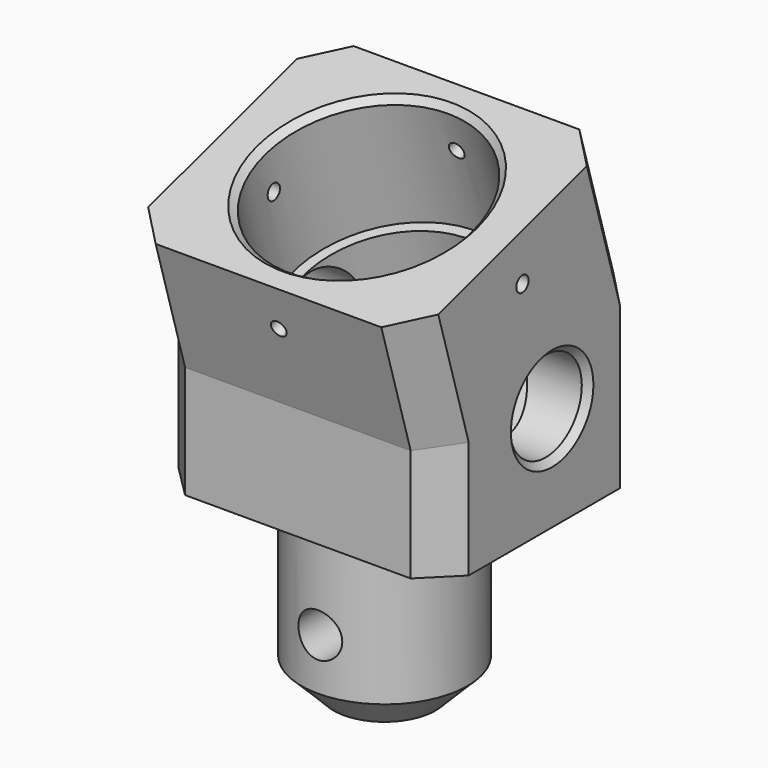
from build123d import *

# Parameters (mm, degrees)
F0_R      = 12.9
F1_DEPTH  = 28
F2_W      = 45
F2_H      = 45
F3_DEPTH  = 50
F5_DEPTH  = 45.001
F6_R      = 14.5
F7_DEPTH  = 35
F8_R      = 16.1
F9_DEPTH  = 20
F10_R     = 3.4
F11_DEPTH = 32.8
F12_R     = 1.2
F12_R_2   = 7
F13_DEPTH = 65.2
F15_DEPTH = 45.0010001
F16_R     = 1.2
F17_DEPTH = 46.3874578725
F18_SIZE  = 5
F19_SIZE  = 1


with BuildPart() as f1:
    # F0 (on Top) → F1 (new body)
    with BuildSketch(Plane.XY):
        Circle(F0_R)
    extrude(amount=F1_DEPTH)

    # F2 (on face) → F3 (join)
    with BuildSketch(Plane.XY.offset(28)):
        Rectangle(F2_W, F2_H)
    extrude(amount=F3_DEPTH)

    # F4 (on face) → F5 (cut, through all)
    with BuildSketch(Plane.YZ.offset(22.5)):
        Polygon((-22.5, 78), (-22.5, 64.6205767989), (22.5, 78), align=None)
    extrude(amount=-F5_DEPTH, mode=Mode.SUBTRACT)

    # F6 (on face) → F7 (cut)
    with BuildSketch(Plane(origin=(0, -19.4799905068, 65.5184875785), x_dir=(1, 0, 0), z_dir=(0, -0.2849907161, 0.9585302769))):
        with Locations((0, 16.7962070879)):
            Circle(F6_R)
    extrude(amount=-F7_DEPTH, mode=Mode.SUBTRACT)

    # F8 (on face) → F9 (cut)
    with BuildSketch(Plane(origin=(0, -19.4799905068, 65.5184875785), x_dir=(1, 0, 0), z_dir=(0, -0.2849907161, 0.9585302769))):
        with Locations((0, 16.7962070879)):
            Circle(F8_R)
    extrude(amount=-F9_DEPTH, mode=Mode.SUBTRACT)

    # F10 (on Front) → F11 (cut, symmetric)
    with BuildSketch(Plane.XZ):
        with Locations((0, 13)):
            Circle(F10_R)
    extrude(amount=F11_DEPTH, both=True, mode=Mode.SUBTRACT)

    # F12 (on Right) → F13 (cut, symmetric)
    with BuildSketch(Plane.YZ):
        with Locations((-1.3853824633, 63.5955387264)):
            Circle(F12_R)
        with Locations((4.3748263706, 44.2218038779)):
            Circle(F12_R_2)
    extrude(amount=F13_DEPTH, both=True, mode=Mode.SUBTRACT)

    # F14 (on face) → F15 (cut, through all)
    with BuildSketch(Plane.YZ.offset(22.5)):
        Polygon((-16.8001856775, 45.449971261), (-22.5, 64.6205767989), (-22.5, 43.755299528), align=None)
        Polygon((-16.8001856775, 28), (-16.8001856775, 45.449971261), (-22.5, 43.755299528), (-22.5, 28), align=None)
        Polygon((22.5, 78), (15.8861410894, 76.0335640587), (22.5, 53.7886850006), align=None)
    extrude(amount=-F15_DEPTH, mode=Mode.SUBTRACT)

    # F16 (on face) → F17 (cut, through all)
    with BuildSketch(Plane(origin=(0, -3.0200094932, -0.8979107796), x_dir=(1, 0, 0), z_dir=(0, -0.9585302769, -0.2849907161))):
        with Locations((0, 61.3530704849)):
            Circle(F16_R)
    extrude(amount=-F17_DEPTH, mode=Mode.SUBTRACT)

    # F18
    f18_edges = [f1.edges().sort_by_distance(p)[0] for p in [
        (22.5, -19.650093, 55.035274),
        (22.5, -16.800186, 36.724986),
        (22.5, 19.193071, 64.911125),
        (22.5, 22.5, 40.894343),
        (-22.5, 22.5, 40.894343),
        (-22.5, 19.193071, 64.911125),
        (-22.5, -19.650093, 55.035274),
        (-22.5, -16.800186, 36.724986),
        (-12.9, 0, 0),
    ]]
    chamfer(f18_edges, length=F18_SIZE)

    # F19
    f19_edges = [f1.edges().sort_by_distance(p)[0] for p in [
        (-16.1, -3.380317, 70.305251),
        (22.5, -2.625174, 44.221804),
        (-22.5, -2.625174, 44.221804),
    ]]
    chamfer(f19_edges, length=F19_SIZE)


solid = f1.part
